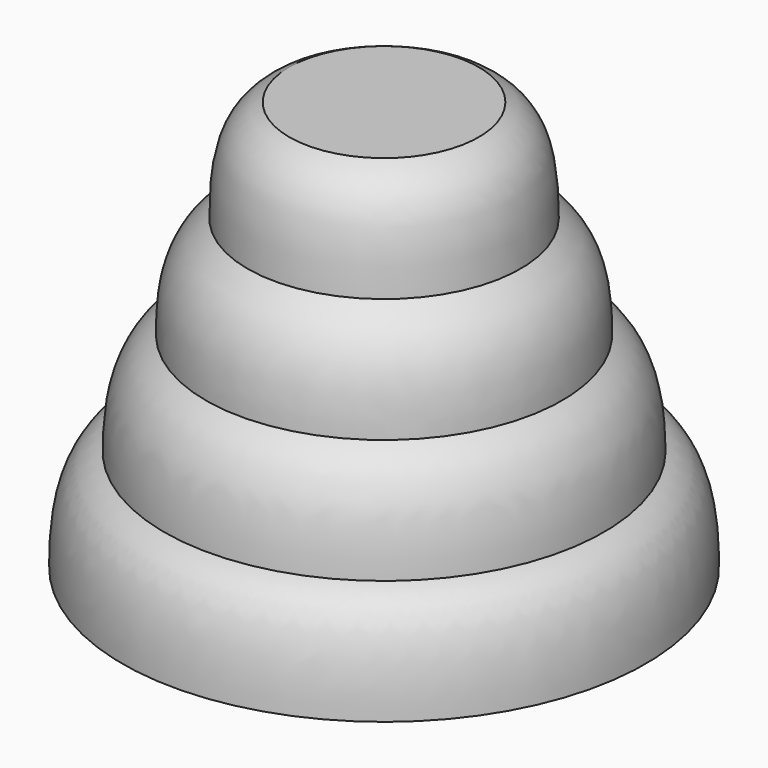
from build123d import *


with BuildPart() as f2:
    # F0 (on Front) → F2 (revolve)
    with BuildSketch(Plane.XZ):
        with BuildLine():
            Line((0, -54), (0, 54))
            Line((0, 54), (-25, 54))
            add(Edge.make_bspline(
                [(-36, 27), (-35.983518, 37.862934), (-35.252854, 49.842596), (-25, 54)],
                knots=[0, 0, 0, 0, 29.154759, 29.154759, 29.154759, 29.154759], degree=3))
            add(Edge.make_bspline(
                [(-36, 27), (-45.18866, 20.483768), (-47, 12.457076), (-47, 0)],
                knots=[0, 0, 0, 0, 29.154759, 29.154759, 29.154759, 29.154759], degree=3))
            add(Edge.make_bspline(
                [(-47, 0), (-56.067226, -4.906513), (-58, -16.071748), (-58, -27)],
                knots=[0, 0, 0, 0, 29.154759, 29.154759, 29.154759, 29.154759], degree=3))
            add(Edge.make_bspline(
                [(-58, -27), (-68.513309, -30.643582), (-69, -45.114197), (-69, -54)],
                knots=[0, 0, 0, 0, 29.154759, 29.154759, 29.154759, 29.154759], degree=3))
            Line((-69, -54), (0, -54))
        make_face()
    revolve(axis=Axis((0, 0, 0), (0, 0, -1)))


solid = f2.part
